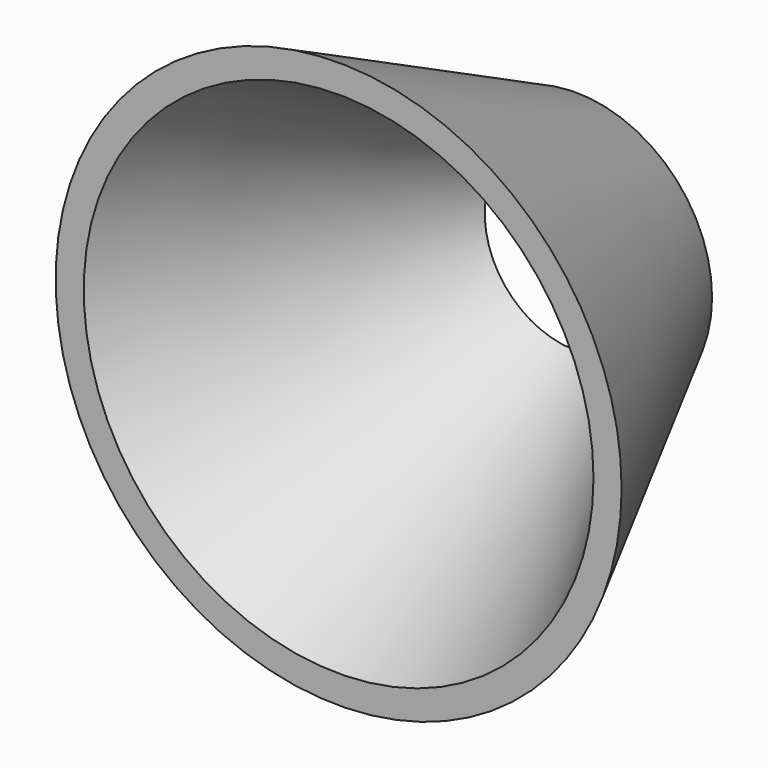
from build123d import *

# Parameters (mm, degrees)
F2_R = 72.694939
F0_R = 34.96976
F4_R = 65.478036
F5_R = 23.426133


with BuildPart() as f3:
    # F2 (on offset) → F3 section 0
    with BuildSketch(Plane.XZ.offset(76.2)):
        Circle(F2_R)
    # F0 (on Front) → F3 section 1
    with BuildSketch(Plane.XZ):
        Circle(F0_R)
    loft()

    # F4 (on offset) → F6 section 0
    with BuildSketch(Plane.XZ.offset(76.2)):
        Circle(F4_R)
    # F5 (on Front) → F6 section 1
    with BuildSketch(Plane.XZ):
        Circle(F5_R)
    loft(mode=Mode.SUBTRACT)


solid = f3.part
